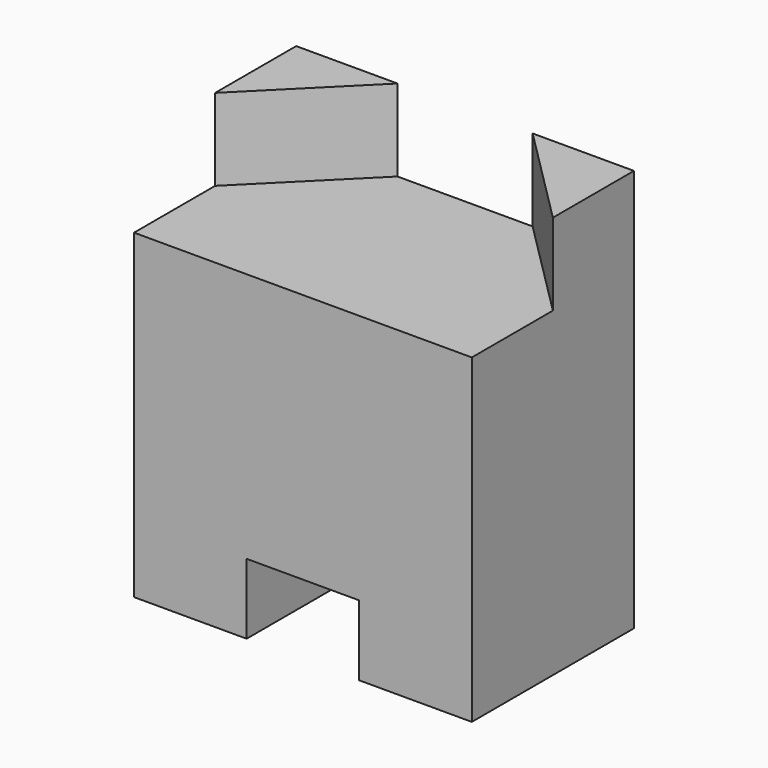
from build123d import *

# Parameters (mm, degrees)
F1_DEPTH = 360
F3_DEPTH = 25.4
F4_DEPTH = 120


with BuildPart() as f1:
    # F0 (on Front) → F1 (new body)
    with BuildSketch(Plane.XZ):
        Polygon((260.316399, -285), (260.316399, 285), (-339.683601, 285), (-339.683601, -285), (-139.683601, -285), (-139.683601, -160), (60.316399, -160), (60.316399, -285), align=None)
    extrude(amount=F1_DEPTH)

    # F2 (on face) → F3 (join)
    with BuildSketch(Plane.XY.offset(285)):
        Polygon((-159.683601, 0), (-339.683601, 0), (-339.683601, -180), align=None)
        Polygon((260.316399, 0), (80.316399, 0), (260.316399, -180), align=None)
    extrude(amount=F3_DEPTH)

    # F3_face (on face) → F4 (join)
    with BuildSketch(Plane(origin=(-279.683601, -60, 310.4), x_dir=(1, 0, 0), z_dir=(0, 0, 1))):
        Polygon((-60, -120), (120, 60), (-60, 60), align=None)
        Polygon((540, 60), (360, 60), (540, -120), align=None)
    extrude(amount=F4_DEPTH)


solid = f1.part
